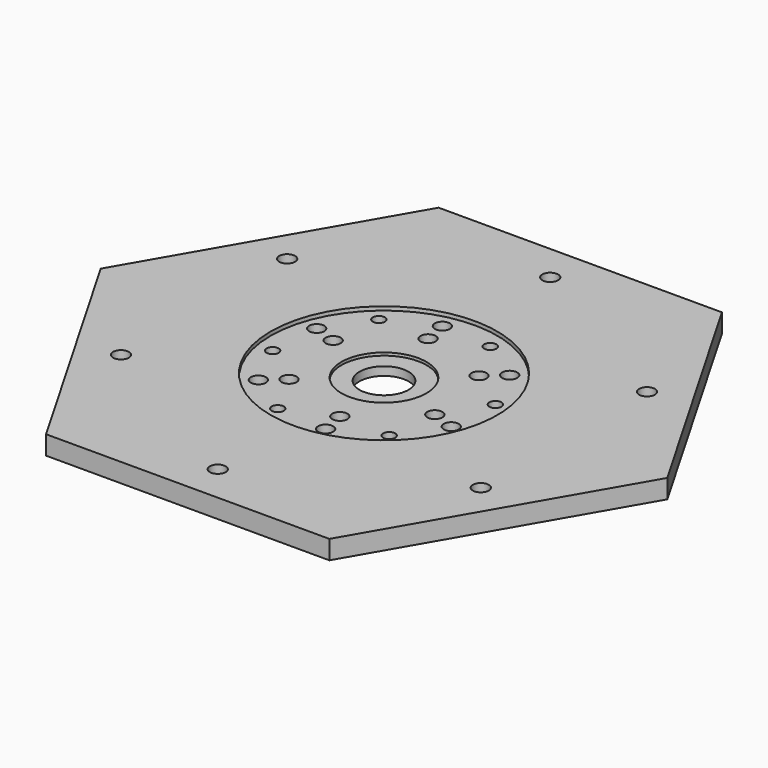
from build123d import *

# Parameters (mm, degrees)
F0_R     = 4.2
F1_DEPTH = 10
F5_D     = 8
F5_DEPTH = 15
F6_D     = 8
F6_DEPTH = 15
F7_D     = 6.4
F7_DEPTH = 20


with BuildPart() as f1:
    # F0 (on Top) → F1 (new body)
    with BuildSketch(Plane.XY):
        Polygon((75, -129.903811), (150, 0), (75, 129.903811), (-75, 129.903811), (-150, 0), (-75, -129.903811), align=None)
        with Locations((-95.262794, -55)):
            Circle(F0_R, mode=Mode.SUBTRACT)
        with Locations((0, -110)):
            Circle(F0_R, mode=Mode.SUBTRACT)
        with Locations((95.262794, -55)):
            Circle(F0_R, mode=Mode.SUBTRACT)
        with Locations((-95.262794, 55)):
            Circle(F0_R, mode=Mode.SUBTRACT)
        with Locations((95.262794, 55)):
            Circle(F0_R, mode=Mode.SUBTRACT)
        with Locations((0, 110)):
            Circle(F0_R, mode=Mode.SUBTRACT)
    extrude(amount=F1_DEPTH)

    # F2 (on Front) → F3 (revolve, cut)
    with BuildSketch(Plane.XZ):
        Polygon((-23.5, 2), (-23.5, -10), (0, -10), (0, 18), (-60, 18), (-60, 8), (-22.5, 8), (-22.5, 6.5), (-13, 6.5), (-13, 2), align=None)
    revolve(axis=Axis((0, 0, -2.490325), (0, 0, -1)), mode=Mode.SUBTRACT)

    # F5
    with Locations(Plane.XY.offset(8)):
        with Locations((-9.922068, 51.044614), (39.244898, 34.11507), (49.166966, -16.929544), (9.922068, -51.044614), (-39.244898, -34.11507), (-49.166966, 16.929544)):
            Hole(F5_D / 2, depth=F5_DEPTH)

    # F6
    with Locations(Plane.XY.offset(8)):
        with Locations((-7.498794, 38.577948), (29.660087, 25.78312), (37.15888, -12.794828), (7.498794, -38.577948), (-29.660087, -25.78312), (-37.15888, 12.794828)):
            Hole(F6_D / 2, depth=F6_DEPTH)

    # F7
    with Locations(Plane.XY.offset(8)):
        with Locations((-34.11507, 39.244898), (16.929544, 49.166966), (51.044614, 9.922068), (34.11507, -39.244898), (-16.929544, -49.166966), (-51.044614, -9.922068)):
            Hole(F7_D / 2, depth=F7_DEPTH)


solid = f1.part
